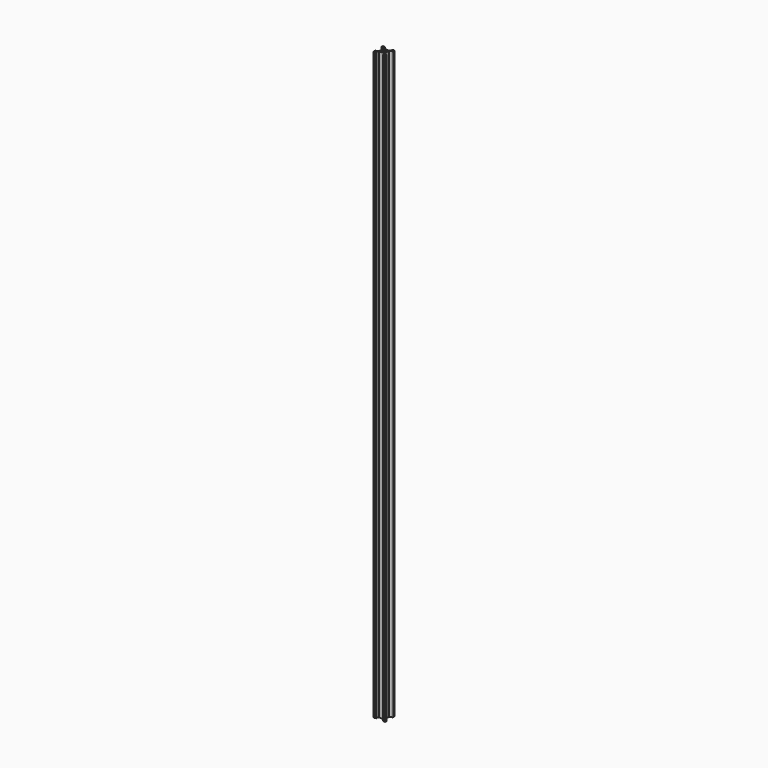
from build123d import *

# Parameters (mm, degrees)
F0_R     = 2.5
F1_DEPTH = 1000


with BuildPart() as f1:
    # F0 (on Top) → F1 (new body)
    with BuildSketch(Plane.XY):
        Polygon((7.5, 8.25), (4.25, 5), (-4.25, 5), (-7.5, 8.25), (-7.5, 9), (-5.621919, 9), (-7.5, 10), (-10, 10), (-10, 7.521491), (-9, 5.736449), (-9, 7.5), (-8.25, 7.5), (-5, 4.25), (-5, -4.25), (-8.25, -7.5), (-9, -7.5), (-9, -5.542951), (-10, -7.5), (-10, -10), (-7.5, -10), (-5.448217, -9), (-7.5, -9), (-7.5, -8.25), (-4.25, -5), (4.25, -5), (7.5, -8.25), (7.5, -9), (5.875, -9), (7.5, -10), (10, -10), (10, -7.5), (9, -5.875), (9, -7.5), (8.25, -7.5), (5, -4.25), (5, 4.25), (8.25, 7.5), (9, 7.5), (9, 5.94341), (10, 7.5), (10, 10), (7.5, 10), (5.875, 9), (7.5, 9), align=None)
        Circle(F0_R, mode=Mode.SUBTRACT)
    extrude(amount=F1_DEPTH)


solid = f1.part
